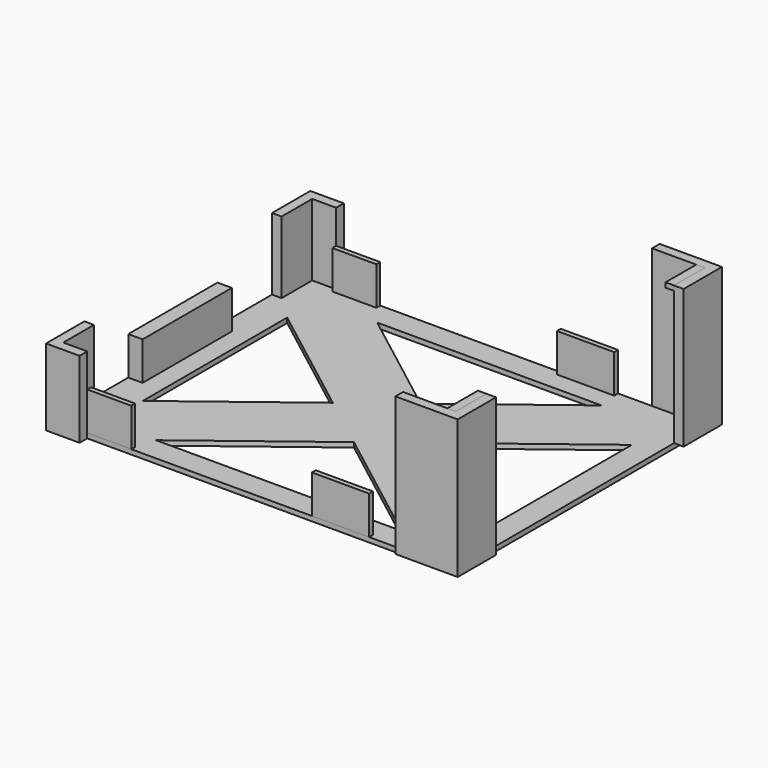
from build123d import *

# Parameters (mm, degrees)
F0_W          = 82
F0_H          = 65
F1_DEPTH      = 1
F4_DEPTH      = 100
F2_W          = 2
F2_H          = 65
F5_DEPTH      = 15
F5_DEPTH_BACK = 1
F6_DEPTH      = 29
F7_W          = 49
F7_H          = 29
F8_DEPTH      = 86.001
F9_W          = 3
F9_H          = 23.2922537252
F10_DEPTH     = 8
F9_W_2        = 9.2139073312
F9_H_2        = 1
F9_W_3        = 11.9788721204
F9_W_4        = 3.0114415884
F9_H_3        = 3.4955975413
F11_W         = 1.7739150524
F11_H         = 8
F12_DEPTH     = 1


with BuildPart() as f1:
    # F0 (on Top) → F1 (new body)
    with BuildSketch(Plane.XY):
        Rectangle(F0_W, F0_H)
    extrude(amount=F1_DEPTH)

    # F3 (on face) → F4 (cut)
    with BuildSketch(Plane.XY.offset(1)):
        Polygon((-11.3747352852, 0.8560366094), (-36, 19.7082804236), (-36, -17.9962072049), align=None)
        Polygon((23.4282652494, 27.5), (-23.4282652494, 27.5), (0, 9.5641372289), align=None)
        Polygon((36, 19.7082804236), (11.3747352852, 0.8560366094), (36, -17.9962072049), align=None)
        Polygon((25.6646174119, -27.5), (0, -7.8520640102), (-25.6646174119, -27.5), align=None)
    extrude(amount=-F4_DEPTH, mode=Mode.SUBTRACT)

    # F2 (on face) → F5 (join, two sides)
    with BuildSketch(Plane.XY.offset(1)) as f5_sk:
        with Locations((-42, 0)):
            Rectangle(F2_W, F2_H)
        Polygon((-43, 32.5), (-41, 32.5), (-36, 32.5), (-36, 34.5), (-43, 34.5), align=None)
        Polygon((-36, -32.5), (-41, -32.5), (-43, -32.5), (-43, -34.5), (-36, -34.5), align=None)
    extrude(amount=F5_DEPTH)
    extrude(f5_sk.sketch, amount=-F5_DEPTH_BACK)


with BuildPart() as f6:
    # F2 (on face) → F6 (new body)
    with BuildSketch(Plane.XY.offset(1)):
        Polygon((30, 34.5), (30, 32.5), (41, 32.5), (43, 32.5), (43, 34.5), align=None)
        with Locations((42, 0)):
            Rectangle(F2_W, F2_H)
        Polygon((41, -32.5), (30, -32.5), (30, -34.5), (43, -34.5), (43, -32.5), align=None)
    extrude(amount=F6_DEPTH)


with BuildPart() as f8_tool:
    # F7 (on face) → F8 (new body, through all)
    with BuildSketch(Plane.YZ.offset(43)):
        with Locations((0, 15.5)):
            Rectangle(F7_W, F7_H)
    extrude(amount=-F8_DEPTH)


with BuildPart() as f1_1:
    add(f1.part)

    # F8: cut by f8_tool
    add(f8_tool.part, mode=Mode.SUBTRACT)


with BuildPart() as f6_1:
    add(f6.part)

    # F8: cut by f8_tool
    add(f8_tool.part, mode=Mode.SUBTRACT)


with BuildPart() as f10:
    # F9 (on face) → F10 (new body)
    with BuildSketch(Plane.XY.offset(1)):
        with Locations((-41.5, -1.3864436187)):
            Rectangle(F9_W, F9_H)
    extrude(amount=F10_DEPTH)


with BuildPart() as f10b:
    # F9 (on face) → F10, piece 2 (new body)
    with BuildSketch(Plane.XY.offset(1)):
        with Locations((-31.3930463344, 32)):
            Rectangle(F9_W_2, F9_H_2)
    extrude(amount=F10_DEPTH)


with BuildPart() as f10c:
    # F9 (on face) → F10, piece 3 (new body)
    with BuildSketch(Plane.XY.offset(1)):
        with Locations((16.9146135449, 32)):
            Rectangle(F9_W_3, F9_H_2)
    extrude(amount=F10_DEPTH)


with BuildPart() as f10d:
    # F9 (on face) → F10, piece 4 (new body)
    with BuildSketch(Plane.XY.offset(1)):
        with Locations((-31.3930463344, -32)):
            Rectangle(F9_W_2, F9_H_2)
    extrude(amount=F10_DEPTH)


with BuildPart() as f10e:
    # F9 (on face) → F10, piece 5 (new body)
    with BuildSketch(Plane.XY.offset(1)):
        with Locations((16.9146135449, -32)):
            Rectangle(F9_W_3, F9_H_2)
    extrude(amount=F10_DEPTH)


with BuildPart() as f10f:
    # F9 (on face) → F10, piece 6 (new body)
    with BuildSketch(Plane.XY.offset(1)):
        with Locations((39.4942792058, -30.7522012293)):
            Rectangle(F9_W_4, F9_H_3)
    extrude(amount=F10_DEPTH)


with BuildPart() as f12:
    # F11 (on face) → F12 (new body)
    with BuildSketch(Plane.XY.offset(30)):
        with Locations((40.1130424738, 28.5)):
            Rectangle(F11_W, F11_H)
    extrude(amount=-F12_DEPTH)


with BuildPart() as f12b:
    # F11 (on face) → F12, piece 2 (new body)
    with BuildSketch(Plane.XY.offset(30)):
        with Locations((40.1130424738, -28.5)):
            Rectangle(F11_W, F11_H)
    extrude(amount=-F12_DEPTH)


solid = Compound([f1_1.part, f6_1.part, f10.part, f10b.part, f10c.part, f10d.part, f10e.part, f10f.part, f12.part, f12b.part])
